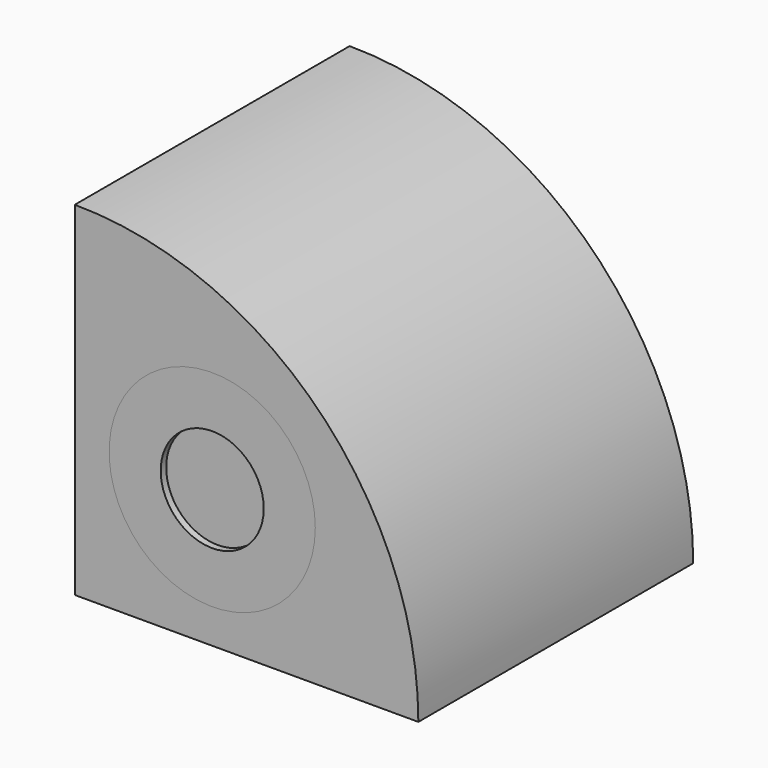
from build123d import *

# Parameters (mm, degrees)
F3_DEPTH = 1000
F2_R     = 300
F4_DEPTH = 1200
F5_DEPTH = 1000
F1_R     = 150
F6_DEPTH = 20


with BuildPart() as f3:
    # F0 (on Front) → F3 (new body)
    with BuildSketch(Plane.XZ):
        with BuildLine():
            Line((0, 0), (1000, 0))
            ThreePointArc((1000, 0), (707.106781, 707.106781), (0, 1000))
            Line((0, 1000), (0, 0))
        make_face()
    extrude(amount=-F3_DEPTH)

    # F2 (on Front) → F4 (cut)
    with BuildSketch(Plane.XZ):
        with Locations((400, 400)):
            Circle(F2_R)
    extrude(amount=-F4_DEPTH, mode=Mode.SUBTRACT)


with BuildPart() as f5:
    # F2 (on Front) → F5 (new body, through all)
    with BuildSketch(Plane.XZ):
        with Locations((400, 400)):
            Circle(F2_R)
    extrude(amount=-F5_DEPTH)

    # F1 (on Front) → F6 (cut)
    with BuildSketch(Plane.XZ):
        with Locations((400, 400)):
            Circle(F1_R)
    extrude(amount=-F6_DEPTH, mode=Mode.SUBTRACT)


solid = Compound([f3.part, f5.part])
